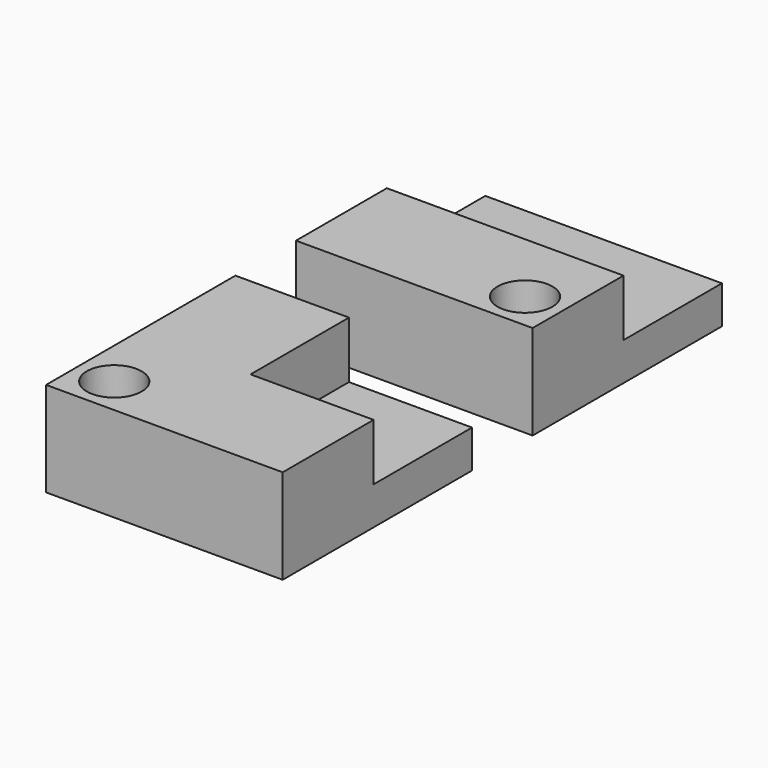
from build123d import *

# Parameters (mm, degrees)
F0_W      = 12.5
F0_H      = 12.5
F1_DEPTH  = 5
F2_W      = 6.5
F2_H      = 6.5
F3_DEPTH  = 3
F4_R      = 1.45
F5_DEPTH  = 5.001
F7_DEPTH  = 6.001
F8_R      = 1.45
F9_DEPTH  = 5
F10_DEPTH = 5.001


with BuildPart() as f1:
    # F0 (on Top) → F1 (new body)
    with BuildSketch(Plane.XY):
        with Locations((6.25, 6.25)):
            Rectangle(F0_W, F0_H)
    extrude(amount=F1_DEPTH)

    # F2 (on face) → F3 (cut)
    with BuildSketch(Plane.XY.offset(5)):
        with Locations((9.25, 9.25)):
            Rectangle(F2_W, F2_H)
    extrude(amount=-F3_DEPTH, mode=Mode.SUBTRACT)

    # F4 (on face) → F5 (cut, through all)
    with BuildSketch(Plane.XY.offset(5)):
        with Locations((2, 2)):
            Circle(F4_R)
    extrude(amount=-F5_DEPTH, mode=Mode.SUBTRACT)


with BuildPart() as f6_1:
    # F6: copy of F1
    add(f1.part.moved(Location((0, 16.5, 0))))

    # F7 (cut, through all): a face of the model
    f7_faces = [f6_1.faces().sort_by_distance(p)[0] for p in [
        (6, 25.75, 3.5),
    ]]
    extrude(f7_faces, amount=-F7_DEPTH, mode=Mode.SUBTRACT)

    # F8 (on face) → F9 (join)
    with BuildSketch(Plane.XY.offset(5)):
        with Locations((2, 18.5)):
            Circle(F8_R)
    extrude(amount=-F9_DEPTH)

    # F8 (on face) → F10 (cut, through all)
    with BuildSketch(Plane.XY.offset(5)):
        with Locations((10.5, 18.5)):
            Circle(F8_R)
    extrude(amount=-F10_DEPTH, mode=Mode.SUBTRACT)


solid = Compound([f1.part, f6_1.part])
